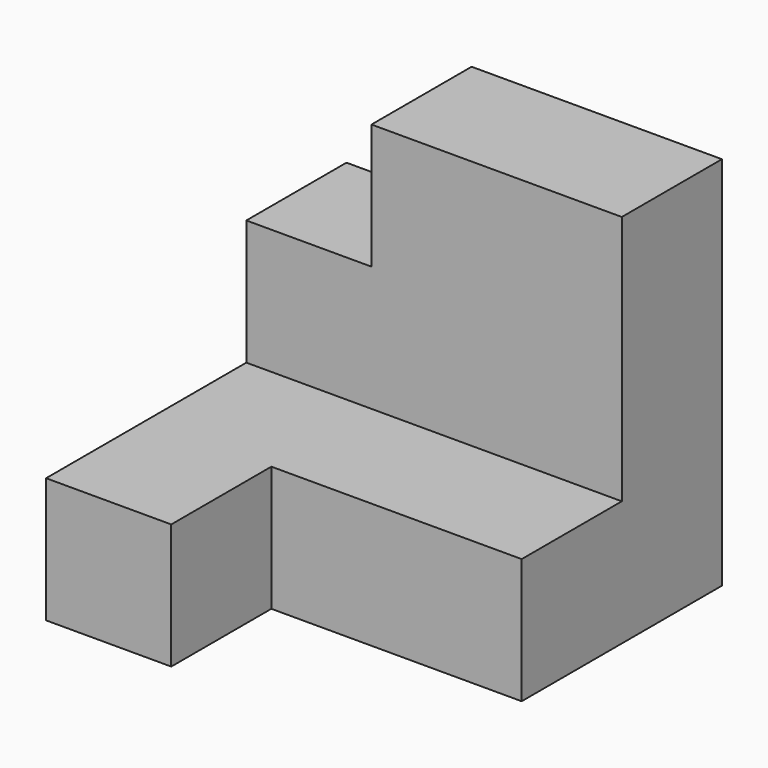
from build123d import *

# Parameters (mm, degrees)
F1_DEPTH = 10
F3_DEPTH = 10


with BuildPart() as f1:
    # F0 (on Top) → F1 (new body)
    with BuildSketch(Plane.XY):
        Polygon((0, 30), (0, 0), (10, 0), (10, 10), (30, 10), (30, 30), align=None)
        Polygon((0, 30), (0, 0), (10, 0), (10, 10), (30, 10), (30, 30), align=None)
    extrude(amount=F1_DEPTH)

    # F2 (on face) → F3 (join)
    with BuildSketch(Plane(origin=(0, 30, 0), x_dir=(-1, 0, 0), z_dir=(0, 1, 0))):
        Polygon((-30, 30), (-30, 0), (0, 0), (0, 20), (-10, 20), (-10, 30), align=None)
        Polygon((-30, 30), (-30, 10), (0, 10), (0, 20), (-10, 20), (-10, 30), align=None)
    extrude(amount=-F3_DEPTH)


solid = f1.part
